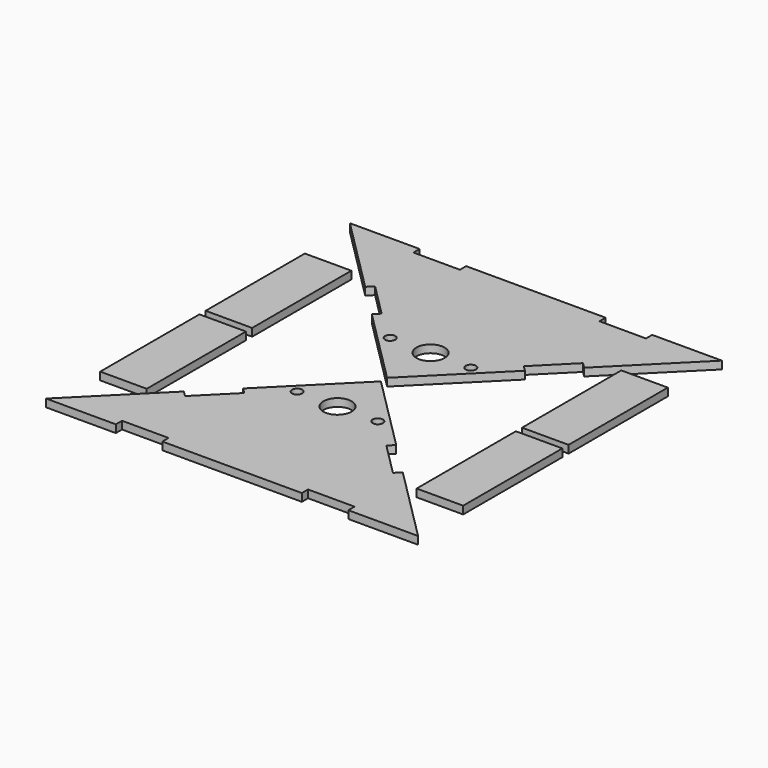
from build123d import *

# Parameters (mm, degrees)
F1_DEPTH  = 6.35
F2_R      = 11.557
F3_DEPTH  = 25.4
F4_W      = 38.1
F4_H      = 101.6
F6_DEPTH  = 6.35
F7_W      = 38.1
F7_H      = 6.35
F8_DEPTH  = 25.4
F9_R      = 4.191
F10_DEPTH = 25.4


with BuildPart() as f1:
    # F0 (on Top) → F1 (new body)
    with BuildSketch(Plane.XY):
        Polygon((-9.152558, 118.838572), (-161.552558, -33.561428), (143.247442, -33.561428), align=None)
    extrude(amount=F1_DEPTH)

    # F2 (on face) → F3 (cut)
    with BuildSketch(Plane.XY.offset(6.35)):
        with Locations((-9.152558, 74.388572)):
            Circle(F2_R)
    extrude(amount=-F3_DEPTH, mode=Mode.SUBTRACT)

    # F7 (on Top) → F8 (cut)
    with BuildSketch(Plane.XY):
        Polygon((76.027698, 24.67806), (80.517826, 29.168188), (53.577058, 56.108957), (49.08693, 51.618829), align=None)
        Polygon((-71.882174, 56.108957), (-98.822942, 29.168188), (-94.332814, 24.67806), (-67.392045, 51.618829), align=None)
        with Locations((-85.352558, -30.386428)):
            Rectangle(F7_W, F7_H)
        with Locations((67.047442, -30.386428)):
            Rectangle(F7_W, F7_H)
    extrude(amount=F8_DEPTH, mode=Mode.SUBTRACT)

    # F9 (on face) → F10 (cut)
    with BuildSketch(Plane.XY.offset(6.35)):
        with Locations((-42.172558, 74.388572)):
            Circle(F9_R)
        with Locations((23.867442, 74.388572)):
            Circle(F9_R)
    extrude(amount=-F10_DEPTH, mode=Mode.SUBTRACT)


with BuildPart() as f6:
    # F4 (on Top) → F6 (new body)
    with BuildSketch(Plane.XY):
        with Locations((-138.782814, 175.988572)):
            Rectangle(F4_W, F4_H)
        with Locations((-138.782814, 68.038572)):
            Rectangle(F4_W, F4_H)
        with Locations((120.477698, 175.988572)):
            Rectangle(F4_W, F4_H)
        with Locations((120.477698, 68.038572)):
            Rectangle(F4_W, F4_H)
    extrude(amount=F6_DEPTH)


with BuildPart() as f11_1:
    # F11: instance of F1
    add(f1.part.mirror(Plane(origin=(-9.152558, 122.013572, 3.175), x_dir=(1, 0, 0), z_dir=(0, -1, 0))))


solid = Compound([f1.part, f6.part, f11_1.part])
